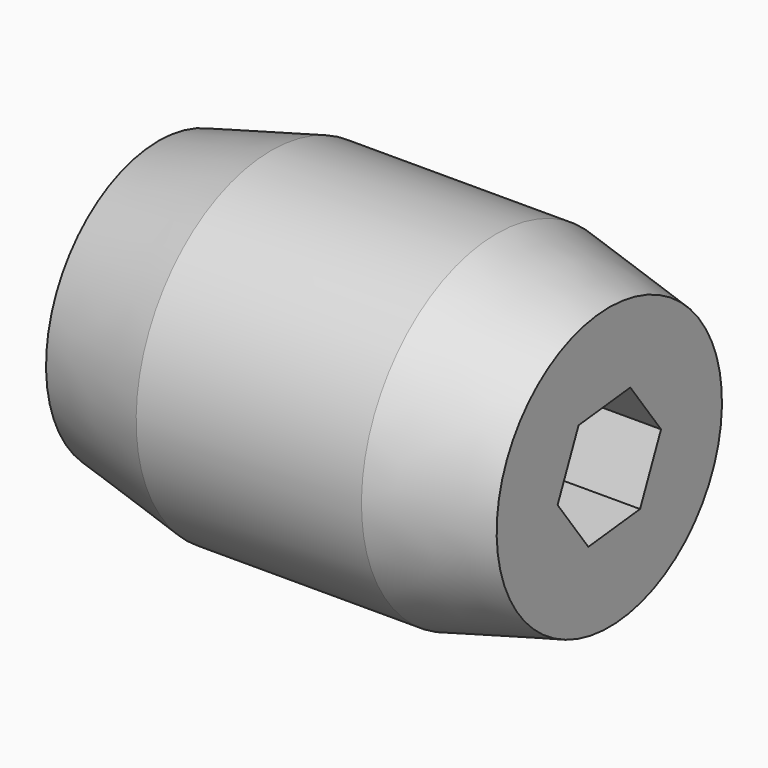
from build123d import *

# Parameters (mm, degrees)
F3_DEPTH      = 50.8
F3_DEPTH_BACK = 50.8


with BuildPart() as f1:
    # F0 (on Front) → F1 (revolve)
    with BuildSketch(Plane.XZ):
        Polygon((-24.5717495672, 15.875), (-24.5717495672, 6.35), (26.2282504328, 6.35), (26.2282504328, 15.875), (13.5282504328, 19.05), (-11.8717495672, 19.05), align=None)
    revolve(axis=Axis((0.4141309397, 0, 0), (1, 0, 0)))

    # F2 (on Right) → F3 (cut, two sides)
    with BuildSketch(Plane.YZ) as f3_sk:
        Polygon((7.2894281006, 0.7921939781), (2.9586539406, 6.7089269033), (-4.3307741601, 5.9167329252), (-7.2894281006, -0.7921939781), (-2.9586539406, -6.7089269033), (4.3307741601, -5.9167329252), align=None)
    extrude(amount=-F3_DEPTH, mode=Mode.SUBTRACT)
    extrude(f3_sk.sketch, amount=F3_DEPTH_BACK, mode=Mode.SUBTRACT)


solid = f1.part
